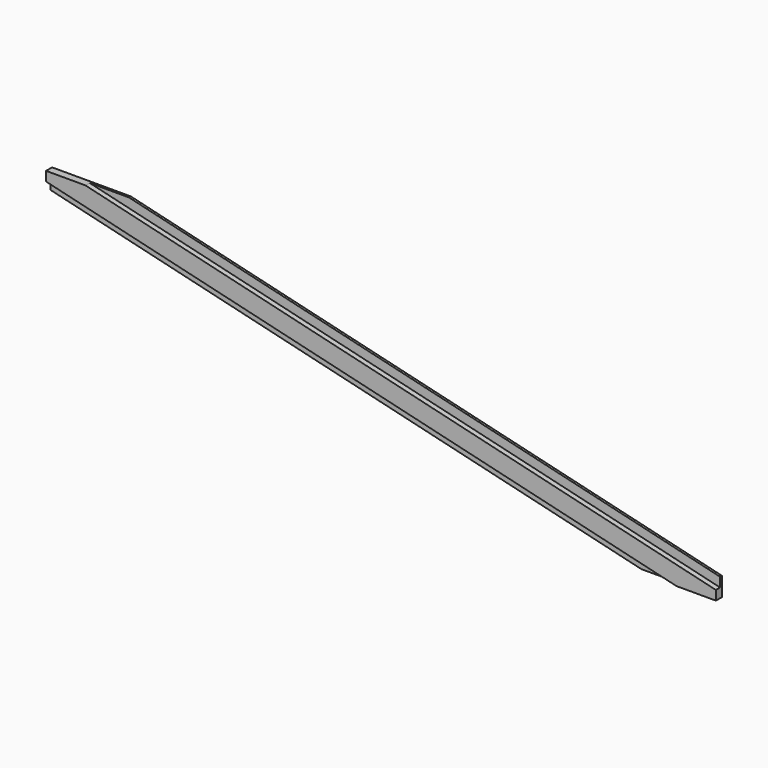
from build123d import *

# Parameters (mm, degrees)
F1_DEPTH = 20.955
F2_DEPTH = 6.35


with BuildPart() as f1:
    # F0 (on Front) → F1 (new body)
    with BuildSketch(Plane.XZ):
        Polygon((0, 418.380344), (1745.243721, 0), (1854.2, 0), (0, 444.5), align=None)
        Polygon((0, 444.5), (1854.2, 0), (1854.2, 26.119656), (108.956279, 444.5), align=None)
    extrude(amount=F1_DEPTH)

    # F0 (on Front) → F2 (join)
    with BuildSketch(Plane.XZ):
        Polygon((0, 392.260688), (1636.287443, 0), (1745.243721, 0), (0, 418.380344), align=None)
        Polygon((0, 418.380344), (1745.243721, 0), (1854.2, 0), (0, 444.5), align=None)
        Polygon((0, 444.5), (1854.2, 0), (1854.2, 26.119656), (108.956279, 444.5), align=None)
        Polygon((108.956279, 444.5), (1854.2, 26.119656), (1854.2, 52.239312), (217.912557, 444.5), align=None)
    extrude(amount=F2_DEPTH)


solid = f1.part
